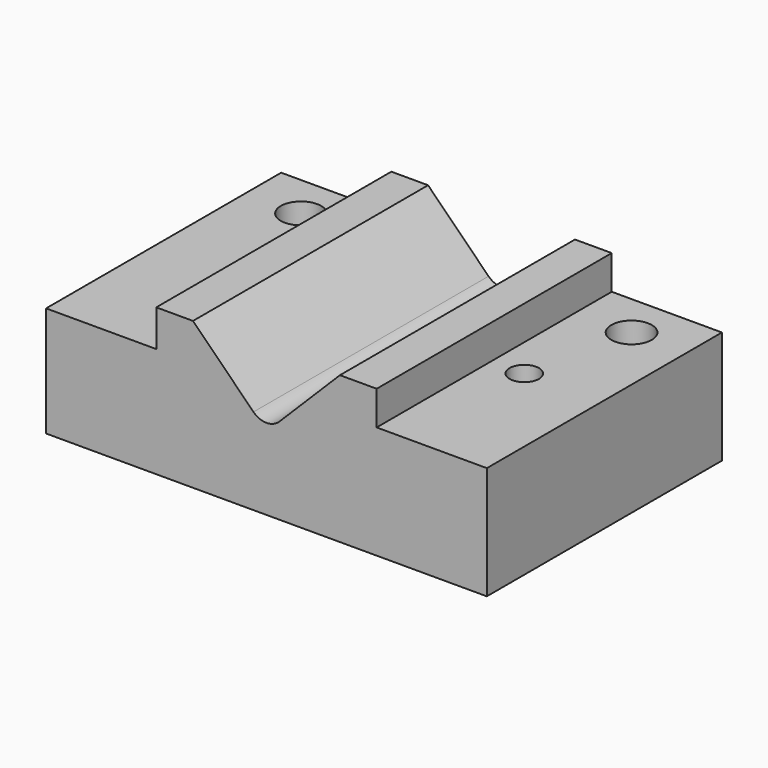
from build123d import *

# Parameters (mm, degrees)
F1_DEPTH       = 40
F3_D           = 5.5
F3_CBORE_D     = 10
F3_CBORE_DEPTH = 5.4
F5_D           = 4


with BuildPart() as f1:
    # F0 (on Front) → F1 (new body)
    with BuildSketch(Plane.XZ):
        with BuildLine():
            Line((-15, 5), (-30, 5))
            Line((-30, 5), (-30, -10))
            Line((-30, -10), (30, -10))
            Line((30, -10), (30, 5.364162))
            Line((30, 5.364162), (15, 5.364162))
            Line((15, 5.364162), (15, 10))
            Line((15, 10), (10, 10))
            Line((10, 10), (1.767767, 1.767767))
            ThreePointArc((1.767767, 1.767767), (0, 1.035534), (-1.767767, 1.767767))
            Line((-1.767767, 1.767767), (-10, 10))
            Line((-10, 10), (-15, 10))
            Line((-15, 10), (-15, 5))
        make_face()
    extrude(amount=F1_DEPTH)

    # F3 (through all)
    with Locations(Plane(origin=(0, 0, -10), x_dir=(1, 0, 0), z_dir=(0, 0, -1))):
        with Locations((-22.5, 6), (22.5, 6)):
            CounterBoreHole(F3_D / 2, F3_CBORE_D / 2, F3_CBORE_DEPTH)

    # F5 (through all)
    with Locations(Plane(origin=(0, 0, -10), x_dir=(1, 0, 0), z_dir=(0, 0, -1))):
        with Locations((19.5, 20.5)):
            Hole(F5_D / 2)


solid = f1.part
